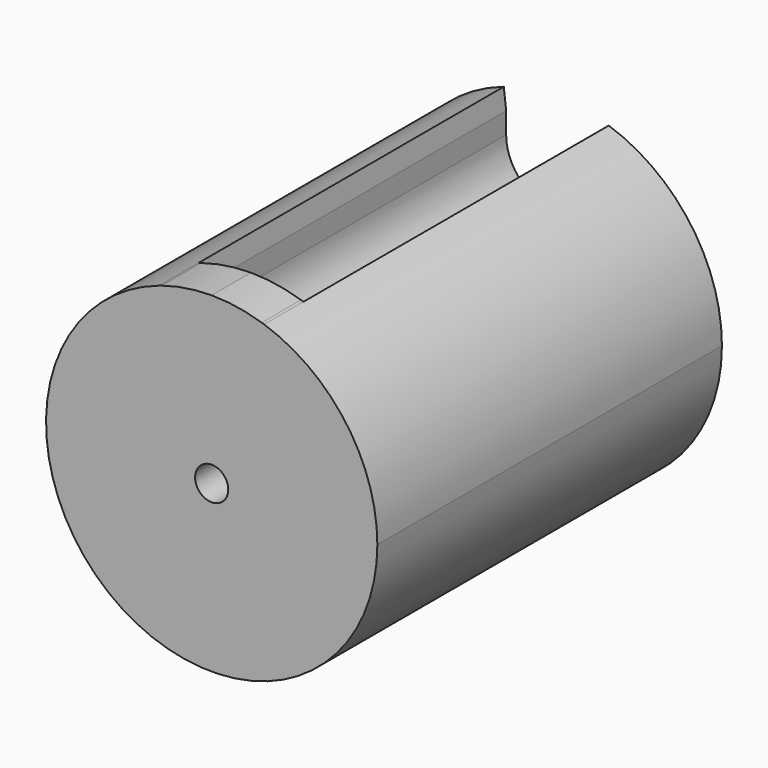
from build123d import *

# Parameters (mm, degrees)
F0_R     = 1.5875
F1_DEPTH = 41.275
F2_DEPTH = 36.576


with BuildPart() as f1:
    # F0 (on Front) → F1 (new body)
    with BuildSketch(Plane.XZ):
        with BuildLine():
            ThreePointArc((-5.031641, 15.056501), (-9.277347, -12.882021), (15.875, 0))
            ThreePointArc((15.875, 0), (12.882021, 9.277347), (5.031641, 15.056501))
            Line((5.031641, 15.056501), (4.8006, 13.103075))
            Line((4.8006, 13.103075), (4.8006, 11.0744))
            ThreePointArc((4.8006, 11.0744), (0, 6.2738), (-4.8006, 11.0744))
            Line((-4.8006, 11.0744), (-4.8006, 13.103075))
            Line((-4.8006, 13.103075), (-5.031641, 15.056501))
        make_face()
        Circle(F0_R, mode=Mode.SUBTRACT)
        with BuildLine():
            Line((4.8006, 13.103075), (4.8006, 15.13175))
            ThreePointArc((4.8006, 15.13175), (2.428898, 15.688087), (0, 15.875))
            ThreePointArc((0, 15.875), (3.394537, 14.468937), (4.8006, 11.0744))
            Line((4.8006, 11.0744), (4.8006, 13.103075))
        make_face()
        with BuildLine():
            ThreePointArc((-4.8006, 15.13175), (-4.916265, 15.094567), (-5.031641, 15.056501))
            Line((-5.031641, 15.056501), (-4.8006, 13.103075))
            Line((-4.8006, 13.103075), (-4.8006, 15.13175))
        make_face()
        with BuildLine():
            ThreePointArc((4.8006, 11.0744), (3.394537, 14.468937), (0, 15.875))
            ThreePointArc((0, 15.875), (-3.394537, 14.468937), (-4.8006, 11.0744))
            ThreePointArc((-4.8006, 11.0744), (0, 6.2738), (4.8006, 11.0744))
        make_face()
        with BuildLine():
            Line((4.8006, 13.103075), (5.031641, 15.056501))
            ThreePointArc((5.031641, 15.056501), (4.916265, 15.094567), (4.8006, 15.13175))
            Line((4.8006, 15.13175), (4.8006, 13.103075))
        make_face()
        with BuildLine():
            ThreePointArc((0, 15.875), (-2.428898, 15.688087), (-4.8006, 15.13175))
            Line((-4.8006, 15.13175), (-4.8006, 13.103075))
            Line((-4.8006, 13.103075), (-4.8006, 11.0744))
            ThreePointArc((-4.8006, 11.0744), (-3.394537, 14.468937), (0, 15.875))
        make_face()
    extrude(amount=F1_DEPTH)

    # F0 (on Front) → F2 (cut)
    with BuildSketch(Plane.XZ):
        with BuildLine():
            ThreePointArc((4.8006, 11.0744), (3.394537, 14.468937), (0, 15.875))
            ThreePointArc((0, 15.875), (-3.394537, 14.468937), (-4.8006, 11.0744))
            ThreePointArc((-4.8006, 11.0744), (0, 6.2738), (4.8006, 11.0744))
        make_face()
        with BuildLine():
            Line((4.8006, 13.103075), (4.8006, 15.13175))
            ThreePointArc((4.8006, 15.13175), (2.428898, 15.688087), (0, 15.875))
            ThreePointArc((0, 15.875), (3.394537, 14.468937), (4.8006, 11.0744))
            Line((4.8006, 11.0744), (4.8006, 13.103075))
        make_face()
        with BuildLine():
            ThreePointArc((0, 15.875), (-2.428898, 15.688087), (-4.8006, 15.13175))
            Line((-4.8006, 15.13175), (-4.8006, 13.103075))
            Line((-4.8006, 13.103075), (-4.8006, 11.0744))
            ThreePointArc((-4.8006, 11.0744), (-3.394537, 14.468937), (0, 15.875))
        make_face()
        with BuildLine():
            ThreePointArc((-4.8006, 15.13175), (-4.916265, 15.094567), (-5.031641, 15.056501))
            Line((-5.031641, 15.056501), (-4.8006, 13.103075))
            Line((-4.8006, 13.103075), (-4.8006, 15.13175))
        make_face()
        with BuildLine():
            Line((4.8006, 13.103075), (5.031641, 15.056501))
            ThreePointArc((5.031641, 15.056501), (4.916265, 15.094567), (4.8006, 15.13175))
            Line((4.8006, 15.13175), (4.8006, 13.103075))
        make_face()
    extrude(amount=F2_DEPTH, mode=Mode.SUBTRACT)


solid = f1.part
